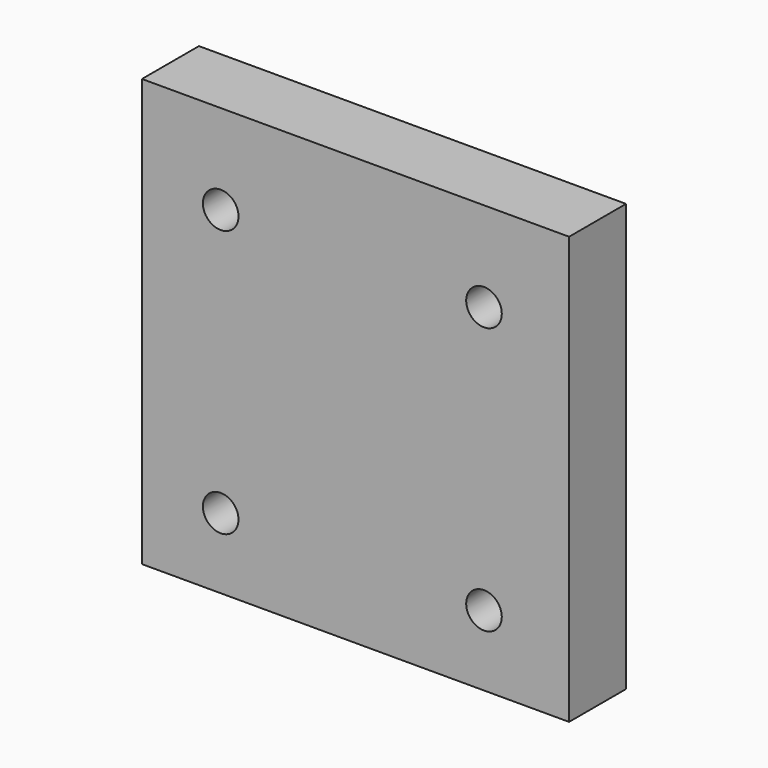
from build123d import *

# Parameters (mm, degrees)
F0_W           = 76.2
F0_H           = 76.2
F1_DEPTH       = 12.7
F3_D           = 3.175
F3_CBORE_D     = 6.35
F3_CBORE_DEPTH = 6.35


with BuildPart() as f1:
    # F0 (on Front) → F1 (new body)
    with BuildSketch(Plane.XZ):
        Rectangle(F0_W, F0_H)
    extrude(amount=F1_DEPTH)

    # F3 (through all)
    with Locations(Plane.XZ.offset(12.7)):
        with Locations((-24.05159, 22.108026), (22.917846, 22.108026), (22.917846, -25.509261), (-24.05159, -25.509261)):
            CounterBoreHole(F3_D / 2, F3_CBORE_D / 2, F3_CBORE_DEPTH)


solid = f1.part
